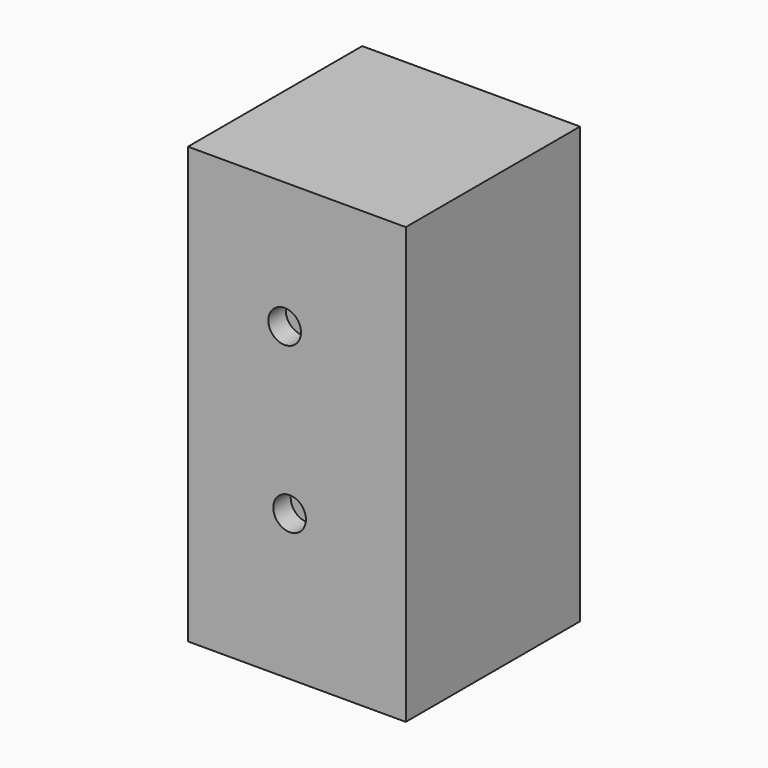
from build123d import *

# Parameters (mm, degrees)
F0_W     = 25.4
F0_H     = 25.4
F1_DEPTH = 50.8
F2_W     = 20.32
F2_H     = 45.72
F3_DEPTH = 22.86
F4_R     = 3.175
F4_R_2   = 1.905
F5_DEPTH = 10.16
F6_DEPTH = 25.4
F7_R     = 5.08
F8_DEPTH = 2.54


with BuildPart() as f1:
    # F0 (on Top) → F1 (new body)
    with BuildSketch(Plane.XY):
        with Locations((-10.5220779449, -6.5101005034)):
            Rectangle(F0_W, F0_H)
    extrude(amount=F1_DEPTH)

    # F2 (on face) → F3 (cut)
    with BuildSketch(Plane(origin=(0, 6.1898994966, 0), x_dir=(-1, 0, 0), z_dir=(0, 1, 0))):
        with Locations((10.5220779449, 25.4)):
            Rectangle(F2_W, F2_H)
    extrude(amount=-F3_DEPTH, mode=Mode.SUBTRACT)

    # F4 (on face) → F5 (join)
    with BuildSketch(Plane(origin=(0, -16.6701005034, 0), x_dir=(-1, 0, 0), z_dir=(0, 1, 0))):
        with Locations((11.9491452351, 36.013584584)):
            Circle(F4_R)
        with Locations((11.9491452351, 36.013584584)):
            Circle(F4_R_2, mode=Mode.SUBTRACT)
        with Locations((11.369979009, 16.9800035655)):
            Circle(F4_R)
        with Locations((11.369979009, 16.9800035655)):
            Circle(F4_R_2, mode=Mode.SUBTRACT)
    extrude(amount=F5_DEPTH)

    # F6 (cut): faces of the model
    f6_faces = [f1.faces().sort_by_distance(p)[0] for p in [
        (-11.9491452351, -16.6701005034, 36.013584584),
        (-11.369979009, -16.6701005034, 16.9800035655),
    ]]
    extrude(f6_faces, amount=-F6_DEPTH, mode=Mode.SUBTRACT)

    # F7 (on face) → F8 (join)
    with BuildSketch(Plane(origin=(0, -16.6701005034, 0), x_dir=(-1, 0, 0), z_dir=(0, 1, 0))):
        with Locations((11.369979009, 16.9800035655)):
            Circle(F7_R)
        with Locations((11.9491452351, 36.013584584)):
            Circle(F7_R)
    extrude(amount=F8_DEPTH)


solid = f1.part
